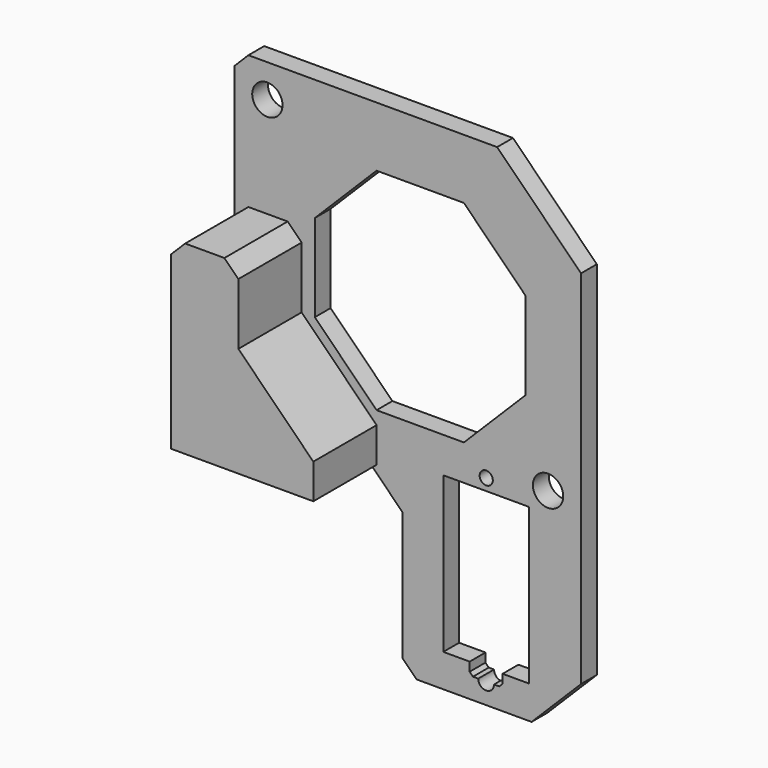
from build123d import *

# Parameters (mm, degrees)
SKETCH_R           = 2.3
SKETCH_R_2         = 1
SKETCH_R_3         = 1.2
SKETCH_W           = 13
SKETCH_H           = 23.6
PAD_DEPTH          = 3
PAD005002_DEPTH    = 12
SKETCH002_R        = 2.15
POCKET_DEPTH       = 24
SKETCH003_R        = 2.15
POCKET002002_DEPTH = 7
POCKET002003_DEPTH = 3.001


with BuildPart() as part:
    # Sketch → Pad (new body)
    with BuildSketch(Plane.XZ):
        Polygon((-26.07868, 25.1), (11.672078, 25.1), (24.4, 12.372078), (24.4, -23.3), (24.4, -42.5), (16.9, -50), (-0.551549, -50), (-2.672869, -47.87868), (-2.672869, -28.369956), (-7.742825, -23.3), (-28.2, -23.3), (-28.2, 22.97868), align=None)
        with Locations((-23.2, 20.1)):
            Circle(SKETCH_R, mode=Mode.SUBTRACT)
        with Locations((19.4, -18.3)):
            Circle(SKETCH_R, mode=Mode.SUBTRACT)
        with Locations((10.01639, -19.647283)):
            Circle(SKETCH_R_2, mode=Mode.SUBTRACT)
        with Locations((10, -46.85)):
            Circle(SKETCH_R_3, mode=Mode.SUBTRACT)
        Polygon((16, 6.627417), (6.627417, 16), (-6.627417, 16), (-16, 6.627417), (-16, -6.627417), (-6.627417, -16), (6.627417, -16), (16, -6.627417), align=None, mode=Mode.SUBTRACT)
        with Locations((10, -33.2)):
            Rectangle(SKETCH_W, SKETCH_H, mode=Mode.SUBTRACT)
    extrude(amount=PAD_DEPTH)

    # Sketch001 (on Face30 of Pad) → Pad005002 (join)
    with BuildSketch(Plane.XZ.offset(3)):
        Polygon((-26.07868, 4.82132), (-20.12132, 4.82132), (-18, 2.7), (-18, -6.627417), (-6.627417, -18), (-6.627417, -23.3), (-28.2, -23.3), (-28.2, 2.7), align=None)
    extrude(amount=PAD005002_DEPTH)

    # Sketch002 (on Face38 of Pad005002) → Pocket (cut)
    with BuildSketch(Plane(origin=(0, 0, -24), x_dir=(1, 0, 0), z_dir=(0, 0, -1))):
        with Locations((-23, 10)):
            Circle(SKETCH002_R)
    extrude(amount=-POCKET_DEPTH, mode=Mode.SUBTRACT)

    # Sketch003 (on Face38 of Pad005002) → Pocket002002 (cut)
    with BuildSketch(Plane(origin=(0, 0, -24), x_dir=(1, 0, 0), z_dir=(0, 0, -1))):
        with Locations((-12, 10)):
            Circle(SKETCH003_R)
    extrude(amount=-POCKET002002_DEPTH, mode=Mode.SUBTRACT)

    # Sketch004 (on Face5 of Pocket002002) → Pocket002003 (cut, through all)
    with BuildSketch(Plane.XZ.offset(3)):
        Polygon((12.5, -43.35), (7.5, -43.35), (7.5, -46.35), (8, -46.85), (10, -46.85), (12, -46.85), (12.5, -46.35), align=None)
    extrude(amount=-POCKET002003_DEPTH, mode=Mode.SUBTRACT)


with BuildPart() as part_1:
    # Body placement: moved
    add(part.part.moved(Location((0, 2, 0))))


solid = part_1.part
